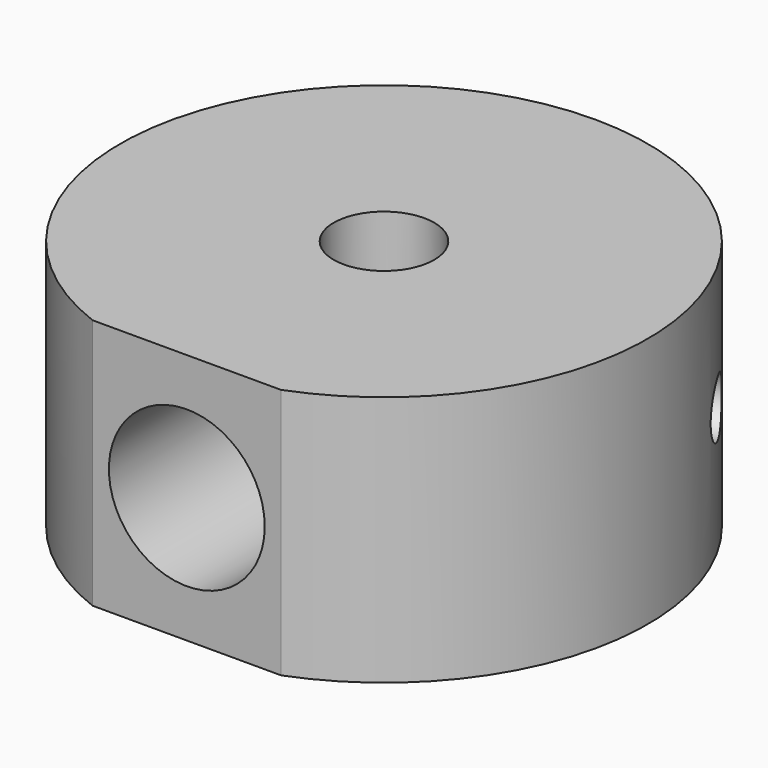
from build123d import *

# Parameters (mm, degrees)
SKETCH_R           = 4
PAD_DEPTH          = 20
SKETCH001_R        = 6.2
POCKET_DEPTH       = 15
SKETCH002_R        = 2.25
POCKET001_DEPTH    = 69
POLARPATTERN_COUNT = 2
POLARPATTERN_ANGLE = 120


with BuildPart() as part:
    # Sketch → Pad (new body)
    with BuildSketch(Plane.XY):
        with BuildLine():
            ThreePointArc((7.5, -19.615045), (0, 21), (-7.5, -19.615045))
            Line((-7.5, -19.615045), (7.5, -19.615045))
        make_face()
        Circle(SKETCH_R, mode=Mode.SUBTRACT)
    extrude(amount=PAD_DEPTH)

    # Sketch001 (on DatumPlane) → Pocket (cut)
    with BuildSketch(Plane.XZ.offset(19.615045)):
        with Locations((0, 10)):
            Circle(SKETCH001_R)
    extrude(amount=-POCKET_DEPTH, mode=Mode.SUBTRACT)

    # Sketch002 (on DatumPlane) → Pocket001 (cut)
    with BuildSketch(Plane(origin=(0, 0, 10), x_dir=(0.5, -0.866025, 0), z_dir=(0.866025, 0.5, 0))):
        Circle(SKETCH002_R)
    pocket001 = extrude(amount=POCKET001_DEPTH, mode=Mode.SUBTRACT)

    # PolarPattern: Pocket001 ×2 about axis
    polarpattern_axis = Axis((0, 0, 0), (0, 0, 1))
    for i in range(1, POLARPATTERN_COUNT):
        add(pocket001.rotate(polarpattern_axis, i * POLARPATTERN_ANGLE / (POLARPATTERN_COUNT - 1)), mode=Mode.SUBTRACT)


solid = part.part
